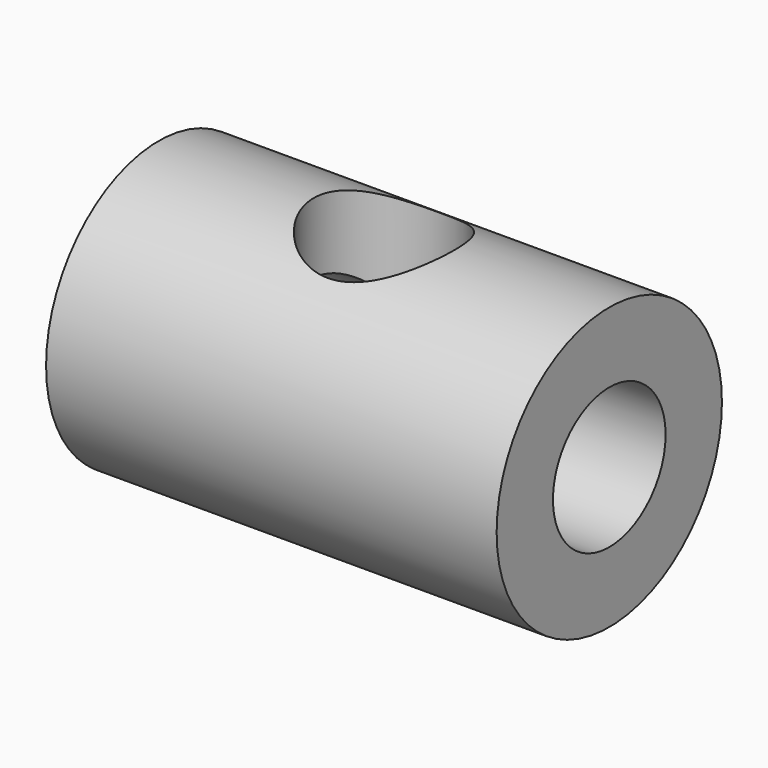
from build123d import *

# Parameters (mm, degrees)
F0_R          = 25
F1_DEPTH      = 40
F2_R          = 12.5
F3_DEPTH      = 25
F4_R          = 12.5
F5_DEPTH      = 40.001
F5_DEPTH_BACK = 40.001


with BuildPart() as f1:
    # F0 (on Right) → F1 (new body, symmetric)
    with BuildSketch(Plane.YZ):
        Circle(F0_R)
    extrude(amount=F1_DEPTH, both=True)

    # F2 (on Top) → F3 (cut)
    with BuildSketch(Plane.XY):
        Circle(F2_R)
    extrude(amount=F3_DEPTH, mode=Mode.SUBTRACT)

    # F4 (on Right) → F5 (cut, two sides)
    with BuildSketch(Plane.YZ) as f5_sk:
        Circle(F4_R)
    extrude(amount=F5_DEPTH, mode=Mode.SUBTRACT)
    extrude(f5_sk.sketch, amount=-F5_DEPTH_BACK, mode=Mode.SUBTRACT)


solid = f1.part
